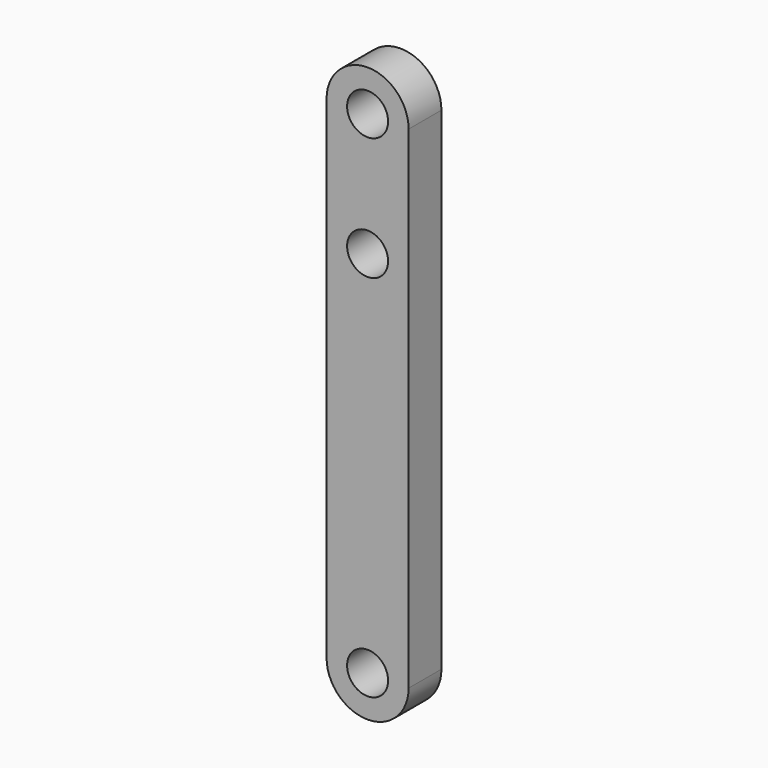
from build123d import *

# Parameters (mm, degrees)
F0_R     = 2.5
F1_DEPTH = 2.5


with BuildPart() as f1:
    # F0 (on Front) → F1 (new body, symmetric)
    with BuildSketch(Plane.XZ):
        with BuildLine():
            Line((5, -30), (5, 30))
            ThreePointArc((5, 30), (0, 35), (-5, 30))
            Line((-5, 30), (-5, -30))
            ThreePointArc((-5, -30), (0, -35), (5, -30))
        make_face()
        with Locations((0, -30)):
            Circle(F0_R, mode=Mode.SUBTRACT)
        with Locations((0, 15)):
            Circle(F0_R, mode=Mode.SUBTRACT)
        with Locations((0, 30)):
            Circle(F0_R, mode=Mode.SUBTRACT)
    extrude(amount=F1_DEPTH, both=True)


solid = f1.part
